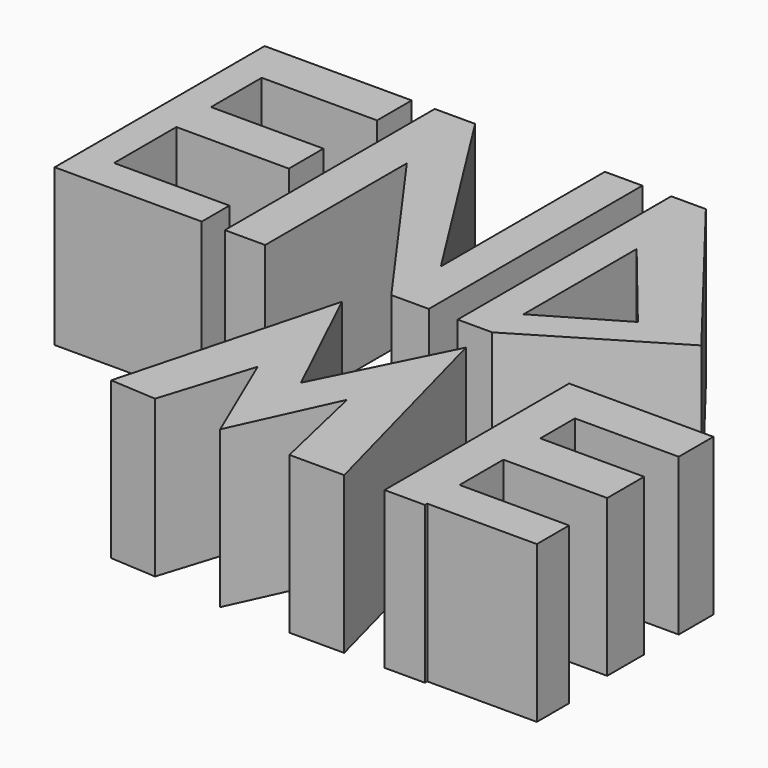
from build123d import *

# Parameters (mm, degrees)
F0_W     = 18.4210687876
F0_H     = 6.9079007953
F0_H_2   = 5.5263210088
F0_W_2   = 17.9605409503
F0_H_3   = 6.9079003297
F1_DEPTH = 25
F0_W_3   = 16.5789593011
F0_H_4   = 7.36842677
F0_W_4   = 17.5000112504
F0_H_5   = 6.4473748207


with BuildPart() as f1:
    # F0 (on Top) → F1 (new body)
    with BuildSketch(Plane.XY):
        Polygon((-58.1193529069, 29.1052367538), (-63.1851479411, 29.1052367538), (-63.1851479411, -12.8026939929), (-58.1193529069, -12.8026939929), (-58.1193529069, -7.2763729841), (-58.1193529069, 5.1578474231), (-58.1193529069, 12.0657477528), (-58.1193529069, 22.1973359585), align=None)
        with Locations((-48.9088185132, 25.6512863562)):
            Rectangle(F0_W, F0_H)
        with Locations((-48.9088185132, -10.0395334885)):
            Rectangle(F0_W, F0_H_2)
        with Locations((-49.1390824318, 8.6117975879)):
            Rectangle(F0_W_2, F0_H_3)
    extrude(amount=F1_DEPTH)


with BuildPart() as f1b:
    # F0 (on Top) → F1, piece 2 (new body)
    with BuildSketch(Plane.XY):
        Polygon((-29.5666959137, 29.1052367538), (-36.0140688717, 29.1052367538), (-36.0140688717, 24.4999695569), align=None)
        Polygon((-8.8492140264, -3.6347731935), (-29.5666959137, 29.1052367538), (-29.5666959137, 15.4736489803), (-8.8492140264, -13.5308206343), align=None)
        Polygon((-29.5666959137, 15.4736489803), (-29.5666959137, 29.1052367538), (-36.0140688717, 24.4999695569), align=None)
        Polygon((-29.5666959137, 15.4736489803), (-36.0140688717, 24.4999695569), (-36.0140688717, -12.8026939929), (-29.5666959137, -12.8026939929), align=None)
        Polygon((-8.8492140264, 29.1052367538), (-8.8492140264, -3.6347731935), (-4.536448212, -10.4502730901), (-8.8492140264, -13.5308206343), (-2.8561477084, -13.5308206343), (-2.8561477084, 29.1052367538), align=None)
        Polygon((-4.536448212, -10.4502730901), (-8.8492140264, -3.6347731935), (-8.8492140264, -13.5308206343), align=None)
    extrude(amount=F1_DEPTH)


with BuildPart() as f1c:
    # F0 (on Top) → F1, piece 3 (new body)
    with BuildSketch(Plane.XY):
        Polygon((7.2754388675, 29.1052367538), (1.7491192557, 29.1052367538), (1.7491192557, -13.5308206343), (7.2754388675, -13.5308206343), (29.8412498087, 0), align=None)
        Polygon((7.2754388675, -7.2763729841), (7.2754388675, 15.2894351631), (19.709661603, 0), align=None, mode=Mode.SUBTRACT)
    extrude(amount=F1_DEPTH)


with BuildPart() as f1d:
    # F0 (on Top) → F1, piece 4 (new body)
    with BuildSketch(Plane.XY):
        Polygon((-12.5272087753, -18.7895409763), (-21.7377431691, -53.3290430903), (-14.3693154678, -53.7895709276), (-9.7640482709, -39.0527136624), (-2.8561477084, -55.1711507142), (4.5122788288, -39.0527136624), (8.1964936107, -55.1711507142), (16.9465020299, -55.1711507142), (7.2754388675, -18.7895409763), (-2.8561477084, -39.0527136624), align=None)
    extrude(amount=F1_DEPTH)


with BuildPart() as f1e:
    # F0 (on Top) → F1, piece 5 (new body)
    with BuildSketch(Plane.XY):
        Polygon((29.8412498087, -18.329013139), (23.3938731253, -18.329013139), (23.3938731253, -55.1711507142), (29.8412498087, -55.1711507142), (29.8412498087, -54.7106266022), (29.8412498087, -48.2632517815), (29.8412498087, -39.5132414997), (29.8412498087, -32.1448147297), (29.8412498087, -25.2369139344), align=None)
        with Locations((38.1307294592, -21.7829635367)):
            Rectangle(F0_W_3, F0_H)
        with Locations((38.1307294592, -35.8290281147)):
            Rectangle(F0_W_3, F0_H_4)
        with Locations((38.5912554339, -51.4869391918)):
            Rectangle(F0_W_4, F0_H_5)
    extrude(amount=F1_DEPTH)


solid = Compound([f1.part, f1b.part, f1c.part, f1d.part, f1e.part])
